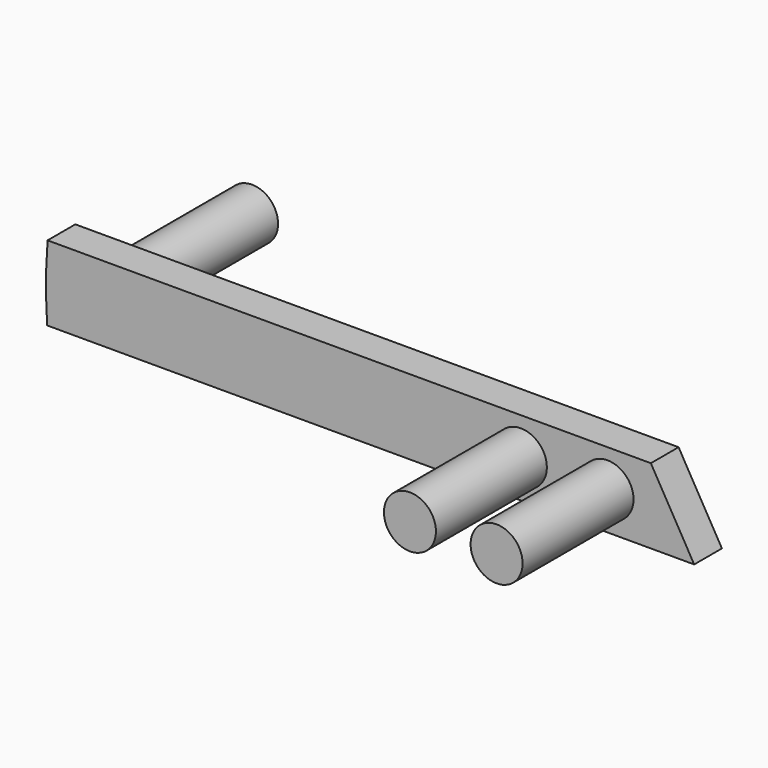
from build123d import *

# Parameters (mm, degrees)
F0_R     = 7.5
F1_DEPTH = 10
F2_DEPTH = 50
F3_DEPTH = 45


with BuildPart() as f1:
    # F0 (on Front) → F1 (new body)
    with BuildSketch(Plane.XZ):
        Polygon((-25.520833, 11.727427), (-38.020833, -9.923208), (-13.020833, -9.923208), (0, -9.923208), (11.979167, -9.923208), (36.979167, -9.923208), (24.479167, 11.727427), (11.979167, 11.727427), align=None)
        with Locations((-13.020833, 0.90211)):
            Circle(F0_R, mode=Mode.SUBTRACT)
        with Locations((11.979167, 0.90211)):
            Circle(F0_R, mode=Mode.SUBTRACT)
        with BuildLine():
            Line((-119.589004, -9.923208), (-38.020833, -9.923208))
            Line((-38.020833, -9.923208), (-25.520833, 11.727427))
            Line((-25.520833, 11.727427), (-119.425573, 11.727427))
            ThreePointArc((-119.425573, 11.727427), (-119.996581, 0.905803), (-119.589004, -9.923208))
        make_face()
        with BuildLine():
            Line((-149.671407, -9.923208), (-119.589004, -9.923208))
            ThreePointArc((-119.589004, -9.923208), (-119.996581, 0.905803), (-119.425573, 11.727427))
            Line((-119.425573, 11.727427), (-149.540855, 11.727427))
            ThreePointArc((-149.540855, 11.727427), (-149.997273, 0.904468), (-149.671407, -9.923208))
        make_face()
        with Locations((-134.55675, 0.896197)):
            Circle(F0_R, mode=Mode.SUBTRACT)
        with Locations((-134.55675, 0.896197)):
            Circle(F0_R)
    extrude(amount=F1_DEPTH)

    # F0 (on Front) → F2 (join)
    with BuildSketch(Plane.XZ):
        with Locations((-13.020833, 0.90211)):
            Circle(F0_R)
        with Locations((11.979167, 0.90211)):
            Circle(F0_R)
    extrude(amount=F2_DEPTH)

    # F0 (on Front) → F3 (join)
    with BuildSketch(Plane.XZ):
        with Locations((-134.55675, 0.896197)):
            Circle(F0_R)
    extrude(amount=-F3_DEPTH)


solid = f1.part
